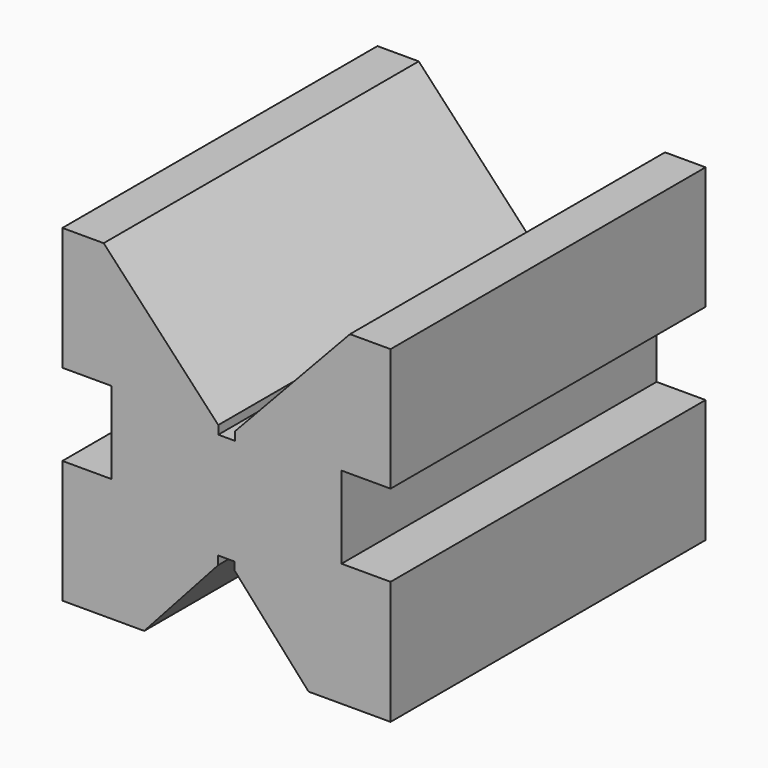
from build123d import *

# Parameters (mm, degrees)
F1_DEPTH = 48


with BuildPart() as f1:
    # F0 (on Front) → F1 (new body)
    with BuildSketch(Plane.XZ):
        Polygon((0, 14.997751), (0, 0), (9.975666, 0), (18.991238, 9.989237), (18.991238, 11.026427), (20, 11.026427), (20.985832, 11.026427), (20.985832, 10.069021), (30.001402, 0), (40, 0), (40, 15.031243), (34.019962, 15.031243), (34.019962, 25.028992), (40, 25.028992), (40, 40), (35.052698, 40), (21.043338, 25.028992), (21.043338, 23.991385), (20.042421, 23.991385), (19.001365, 23.991385), (19.001365, 25.028992), (5.032144, 40), (0, 40), (0, 24.992259), (5.982323, 24.992259), (5.982323, 14.997751), align=None)
    extrude(amount=-F1_DEPTH)


solid = f1.part
